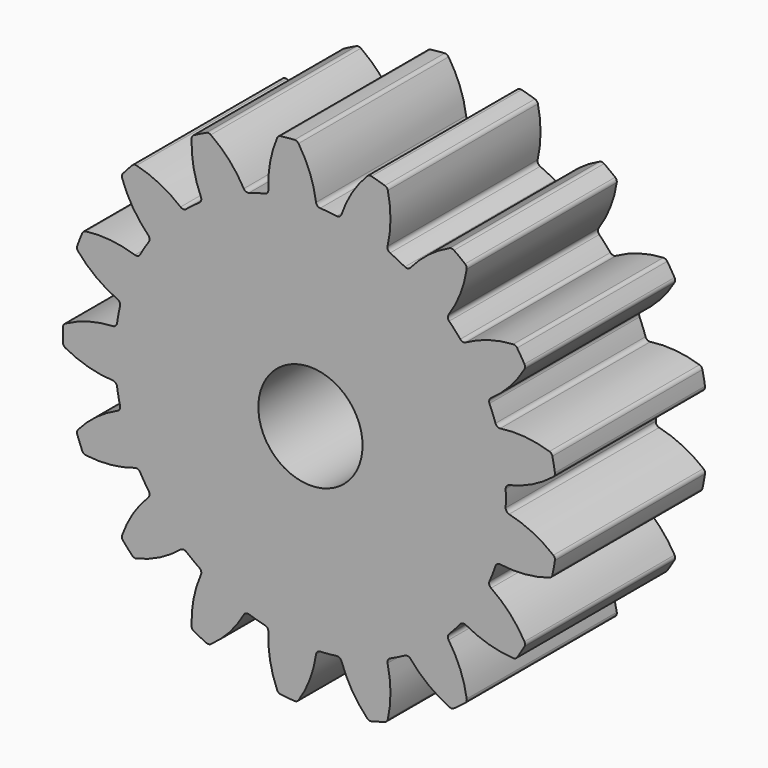
from build123d import *

# Parameters (mm, degrees)
F1_DEPTH = 3.6
F2_R     = 1
F3_DEPTH = 3.601


with BuildPart() as f1:
    # F0 (on Front) → F1 (new body)
    with BuildSketch(Plane.XZ):
        with BuildLine():
            ThreePointArc((0.10755, 3.818397), (-0.010961, 4.279436), (-0.229128, 4.702527))
            ThreePointArc((-0.229128, 4.702527), (-0.262172, 4.731554), (-0.3053, 4.740178))
            ThreePointArc((-0.3053, 4.740178), (-0.438275, 4.729737), (-0.570904, 4.715567))
            ThreePointArc((-0.570904, 4.715567), (-0.611713, 4.699164), (-0.63886, 4.66456))
            ThreePointArc((-0.63886, 4.66456), (-0.77557, 4.208585), (-0.807348, 3.733619))
            ThreePointArc((-0.807348, 3.733619), (-0.824351, 3.678638), (-0.872484, 3.647091))
            ThreePointArc((-0.872484, 3.647091), (-1.026236, 3.606846), (-1.178145, 3.560123))
            ThreePointArc((-1.178145, 3.560123), (-1.671519, 3.356862), (-2.131048, 3.085633))
            ThreePointArc((-2.131048, 3.085633), (-2.25988, 2.992565), (-2.384652, 2.89412))
            ThreePointArc((-2.384652, 2.89412), (-2.771283, 2.526359), (-3.101803, 2.107444))
            ThreePointArc((-3.101803, 2.107444), (-3.188314, 1.974121), (-3.269099, 1.837251))
            ThreePointArc((-3.269099, 1.837251), (-3.496771, 1.354656), (-3.653641, 0.844633))
            ThreePointArc((-3.653641, 0.844633), (-3.686149, 0.689061), (-3.712036, 0.532251))
            ThreePointArc((-3.712036, 0.532251), (-3.75, 0), (-3.712036, -0.532251))
            ThreePointArc((-3.712036, -0.532251), (-3.686149, -0.689061), (-3.653641, -0.844633))
            ThreePointArc((-3.653641, -0.844633), (-3.496771, -1.354656), (-3.269099, -1.837251))
            ThreePointArc((-3.269099, -1.837251), (-3.188314, -1.974121), (-3.101803, -2.107444))
            ThreePointArc((-3.101803, -2.107444), (-2.771283, -2.526359), (-2.384652, -2.89412))
            ThreePointArc((-2.384652, -2.89412), (-2.25988, -2.992565), (-2.131048, -3.085633))
            ThreePointArc((-2.131048, -3.085633), (-1.671519, -3.356862), (-1.178145, -3.560123))
            ThreePointArc((-1.178145, -3.560123), (-1.026236, -3.606846), (-0.872484, -3.647091))
            ThreePointArc((-0.872484, -3.647091), (-0.346006, -3.734003), (0.187477, -3.745311))
            ThreePointArc((0.187477, -3.745311), (0.346006, -3.734003), (0.503914, -3.715988))
            ThreePointArc((0.503914, -3.715988), (1.026236, -3.606846), (1.527779, -3.424674))
            ThreePointArc((1.527779, -3.424674), (1.671519, -3.356862), (1.812256, -3.283021))
            ThreePointArc((1.812256, -3.283021), (2.25988, -2.992565), (2.661747, -2.641516))
            ThreePointArc((2.661747, -2.641516), (2.771283, -2.526359), (2.875842, -2.406664))
            ThreePointArc((2.875842, -2.406664), (3.188314, -1.974121), (3.43623, -1.501606))
            ThreePointArc((3.43623, -1.501606), (3.496771, -1.354656), (3.55103, -1.205273))
            ThreePointArc((3.55103, -1.205273), (3.686149, -0.689061), (3.746632, -0.158897))
            ThreePointArc((3.746632, -0.158897), (3.75, 0), (3.746632, 0.158897))
            ThreePointArc((3.746632, 0.158897), (3.686149, 0.689061), (3.55103, 1.205273))
            ThreePointArc((3.55103, 1.205273), (3.496771, 1.354656), (3.43623, 1.501606))
            ThreePointArc((3.43623, 1.501606), (3.188314, 1.974121), (2.875842, 2.406664))
            ThreePointArc((2.875842, 2.406664), (2.771283, 2.526359), (2.661747, 2.641516))
            ThreePointArc((2.661747, 2.641516), (2.25988, 2.992565), (1.812256, 3.283021))
            ThreePointArc((1.812256, 3.283021), (1.671519, 3.356862), (1.527779, 3.424674))
            ThreePointArc((1.527779, 3.424674), (1.026236, 3.606846), (0.503914, 3.715988))
            ThreePointArc((0.503914, 3.715988), (0.346006, 3.734003), (0.187477, 3.745311))
            ThreePointArc((0.187477, 3.745311), (0.134367, 3.767476), (0.10755, 3.818397))
        make_face()
        with BuildLine():
            ThreePointArc((-2.131048, 3.085633), (-1.671519, 3.356862), (-1.178145, 3.560123))
            ThreePointArc((-1.178145, 3.560123), (-1.235676, 3.561606), (-1.279076, 3.599401))
            ThreePointArc((-1.279076, 3.599401), (-1.556132, 3.986496), (-1.912404, 4.302205))
            ThreePointArc((-1.912404, 4.302205), (-1.953702, 4.317335), (-1.997034, 4.309798))
            ThreePointArc((-1.997034, 4.309798), (-2.117257, 4.252026), (-2.235811, 4.190901))
            ThreePointArc((-2.235811, 4.190901), (-2.267939, 4.160864), (-2.280753, 4.118789))
            ThreePointArc((-2.280753, 4.118789), (-2.243514, 3.64422), (-2.101568, 3.189848))
            ThreePointArc((-2.101568, 3.189848), (-2.097561, 3.132438), (-2.131048, 3.085633))
        make_face()
        with BuildLine():
            ThreePointArc((-3.101803, 2.107444), (-2.771283, 2.526359), (-2.384652, 2.89412))
            ThreePointArc((-2.384652, 2.89412), (-2.438834, 2.874721), (-2.492957, 2.894286))
            ThreePointArc((-2.492957, 2.894286), (-2.891138, 3.155157), (-3.3374, 3.320847))
            ThreePointArc((-3.3374, 3.320847), (-3.381374, 3.320036), (-3.419057, 3.297355))
            ThreePointArc((-3.419057, 3.297355), (-3.510292, 3.200054), (-3.59876, 3.10023))
            ThreePointArc((-3.59876, 3.10023), (-3.617868, 3.060616), (-3.614617, 3.016754))
            ThreePointArc((-3.614617, 3.016754), (-3.408458, 2.587684), (-3.11196, 2.215271))
            ThreePointArc((-3.11196, 2.215271), (-3.087485, 2.163185), (-3.101803, 2.107444))
        make_face()
        with BuildLine():
            ThreePointArc((-3.653641, 0.844633), (-3.496771, 1.354656), (-3.269099, 1.837251))
            ThreePointArc((-3.269099, 1.837251), (-3.312614, 1.799589), (-3.370149, 1.798281))
            ThreePointArc((-3.370149, 1.798281), (-3.83568, 1.897697), (-4.311661, 1.89099))
            ThreePointArc((-4.311661, 1.89099), (-4.352373, 1.874348), (-4.379318, 1.839586))
            ThreePointArc((-4.379318, 1.839586), (-4.429243, 1.715898), (-4.475676, 1.590857))
            ThreePointArc((-4.475676, 1.590857), (-4.479183, 1.547015), (-4.460307, 1.507289))
            ThreePointArc((-4.460307, 1.507289), (-4.113072, 1.181666), (-3.702065, 0.941509))
            ThreePointArc((-3.702065, 0.941509), (-3.660426, 0.901782), (-3.653641, 0.844633))
        make_face()
        with BuildLine():
            ThreePointArc((-3.712036, -0.532251), (-3.75, 0), (-3.712036, 0.532251))
            ThreePointArc((-3.712036, 0.532251), (-3.739007, 0.481412), (-3.792185, 0.459409))
            ThreePointArc((-3.792185, 0.459409), (-4.262192, 0.383942), (-4.703608, 0.205744))
            ThreePointArc((-4.703608, 0.205744), (-4.73556, 0.175519), (-4.748127, 0.133371))
            ThreePointArc((-4.748127, 0.133371), (-4.75, 0), (-4.748127, -0.133371))
            ThreePointArc((-4.748127, -0.133371), (-4.73556, -0.175519), (-4.703608, -0.205744))
            ThreePointArc((-4.703608, -0.205744), (-4.262192, -0.383942), (-3.792185, -0.459409))
            ThreePointArc((-3.792185, -0.459409), (-3.739007, -0.481412), (-3.712036, -0.532251))
        make_face()
        with BuildLine():
            ThreePointArc((0.595909, 3.773144), (0.560193, 3.728017), (0.503914, 3.715988))
            ThreePointArc((0.503914, 3.715988), (1.026236, 3.606846), (1.527779, 3.424674))
            ThreePointArc((1.527779, 3.424674), (1.486262, 3.464528), (1.479652, 3.521697))
            ThreePointArc((1.479652, 3.521697), (1.53569, 3.994415), (1.485093, 4.467746))
            ThreePointArc((1.485093, 4.467746), (1.464766, 4.50675), (1.427666, 4.530372))
            ThreePointArc((1.427666, 4.530372), (1.299899, 4.568672), (1.171107, 4.603369))
            ThreePointArc((1.171107, 4.603369), (1.127129, 4.602816), (1.089314, 4.580355))
            ThreePointArc((1.089314, 4.580355), (0.797119, 4.204557), (0.595909, 3.773144))
        make_face()
        with BuildLine():
            ThreePointArc((1.918686, 3.303084), (1.86908, 3.273908), (1.812256, 3.283021))
            ThreePointArc((1.812256, 3.283021), (2.25988, 2.992565), (2.661747, 2.641516))
            ThreePointArc((2.661747, 2.641516), (2.63743, 2.693676), (2.651918, 2.749373))
            ThreePointArc((2.651918, 2.749373), (2.874937, 3.169926), (2.998744, 3.629572))
            ThreePointArc((2.998744, 3.629572), (2.99388, 3.673284), (2.967818, 3.708713))
            ThreePointArc((2.967818, 3.708713), (2.862515, 3.790582), (2.754954, 3.869461))
            ThreePointArc((2.754954, 3.869461), (2.713745, 3.884832), (2.67037, 3.877549))
            ThreePointArc((2.67037, 3.877549), (2.262152, 3.63268), (1.918686, 3.303084))
        make_face()
        with BuildLine():
            ThreePointArc((2.982333, 2.386925), (2.925537, 2.377638), (2.875842, 2.406664))
            ThreePointArc((2.875842, 2.406664), (3.188314, 1.974121), (3.43623, 1.501606))
            ThreePointArc((3.43623, 1.501606), (3.432399, 1.559029), (3.466028, 1.605731))
            ThreePointArc((3.466028, 1.605731), (3.825909, 1.917321), (4.107398, 2.301204))
            ThreePointArc((4.107398, 2.301204), (4.118653, 2.343721), (4.10715, 2.386173))
            ThreePointArc((4.10715, 2.386173), (4.038531, 2.500553), (3.966728, 2.612961))
            ThreePointArc((3.966728, 2.612961), (3.933855, 2.64218), (3.890778, 2.651058))
            ThreePointArc((3.890778, 2.651058), (3.421669, 2.57019), (2.982333, 2.386925))
        make_face()
        with BuildLine():
            ThreePointArc((3.643199, 1.148399), (3.586884, 1.160256), (3.55103, 1.205273))
            ThreePointArc((3.55103, 1.205273), (3.686149, 0.689061), (3.746632, 0.158897))
            ThreePointArc((3.746632, 0.158897), (3.763802, 0.213826), (3.812032, 0.245226))
            ThreePointArc((3.812032, 0.245226), (4.26017, 0.405771), (4.661326, 0.662045))
            ThreePointArc((4.661326, 0.662045), (4.687179, 0.697626), (4.691788, 0.741366))
            ThreePointArc((4.691788, 0.741366), (4.669122, 0.87281), (4.642775, 1.003566))
            ThreePointArc((4.642775, 1.003566), (4.622676, 1.042688), (4.585715, 1.066526))
            ThreePointArc((4.585715, 1.066526), (4.119071, 1.160581), (3.643199, 1.148399))
        make_face()
        with BuildLine():
            ThreePointArc((3.812032, -0.245226), (3.763802, -0.213826), (3.746632, -0.158897))
            ThreePointArc((3.746632, -0.158897), (3.686149, -0.689061), (3.55103, -1.205273))
            ThreePointArc((3.55103, -1.205273), (3.586884, -1.160256), (3.643199, -1.148399))
            ThreePointArc((3.643199, -1.148399), (4.119071, -1.160581), (4.585715, -1.066526))
            ThreePointArc((4.585715, -1.066526), (4.622676, -1.042688), (4.642775, -1.003566))
            ThreePointArc((4.642775, -1.003566), (4.669122, -0.87281), (4.691788, -0.741366))
            ThreePointArc((4.691788, -0.741366), (4.687179, -0.697626), (4.661326, -0.662045))
            ThreePointArc((4.661326, -0.662045), (4.26017, -0.405771), (3.812032, -0.245226))
        make_face()
        with BuildLine():
            ThreePointArc((3.466028, -1.605731), (3.432399, -1.559029), (3.43623, -1.501606))
            ThreePointArc((3.43623, -1.501606), (3.188314, -1.974121), (2.875842, -2.406664))
            ThreePointArc((2.875842, -2.406664), (2.925537, -2.377638), (2.982333, -2.386925))
            ThreePointArc((2.982333, -2.386925), (3.421669, -2.57019), (3.890778, -2.651058))
            ThreePointArc((3.890778, -2.651058), (3.933855, -2.64218), (3.966728, -2.612961))
            ThreePointArc((3.966728, -2.612961), (4.038531, -2.500553), (4.10715, -2.386173))
            ThreePointArc((4.10715, -2.386173), (4.118653, -2.343721), (4.107398, -2.301204))
            ThreePointArc((4.107398, -2.301204), (3.825909, -1.917321), (3.466028, -1.605731))
        make_face()
        with BuildLine():
            ThreePointArc((2.651918, -2.749373), (2.63743, -2.693676), (2.661747, -2.641516))
            ThreePointArc((2.661747, -2.641516), (2.25988, -2.992565), (1.812256, -3.283021))
            ThreePointArc((1.812256, -3.283021), (1.86908, -3.273908), (1.918686, -3.303084))
            ThreePointArc((1.918686, -3.303084), (2.262152, -3.63268), (2.67037, -3.877549))
            ThreePointArc((2.67037, -3.877549), (2.713745, -3.884832), (2.754954, -3.869461))
            ThreePointArc((2.754954, -3.869461), (2.862515, -3.790582), (2.967818, -3.708713))
            ThreePointArc((2.967818, -3.708713), (2.99388, -3.673284), (2.998744, -3.629572))
            ThreePointArc((2.998744, -3.629572), (2.874937, -3.169926), (2.651918, -2.749373))
        make_face()
        with BuildLine():
            ThreePointArc((1.479652, -3.521697), (1.486262, -3.464528), (1.527779, -3.424674))
            ThreePointArc((1.527779, -3.424674), (1.026236, -3.606846), (0.503914, -3.715988))
            ThreePointArc((0.503914, -3.715988), (0.560193, -3.728017), (0.595909, -3.773144))
            ThreePointArc((0.595909, -3.773144), (0.797119, -4.204557), (1.089314, -4.580355))
            ThreePointArc((1.089314, -4.580355), (1.127129, -4.602816), (1.171107, -4.603369))
            ThreePointArc((1.171107, -4.603369), (1.299899, -4.568672), (1.427666, -4.530372))
            ThreePointArc((1.427666, -4.530372), (1.464766, -4.50675), (1.485093, -4.467746))
            ThreePointArc((1.485093, -4.467746), (1.53569, -3.994415), (1.479652, -3.521697))
        make_face()
        with BuildLine():
            ThreePointArc((0.10755, -3.818397), (0.134367, -3.767476), (0.187477, -3.745311))
            ThreePointArc((0.187477, -3.745311), (-0.346006, -3.734003), (-0.872484, -3.647091))
            ThreePointArc((-0.872484, -3.647091), (-0.824351, -3.678638), (-0.807348, -3.733619))
            ThreePointArc((-0.807348, -3.733619), (-0.77557, -4.208585), (-0.63886, -4.66456))
            ThreePointArc((-0.63886, -4.66456), (-0.611713, -4.699164), (-0.570904, -4.715567))
            ThreePointArc((-0.570904, -4.715567), (-0.438275, -4.729737), (-0.3053, -4.740178))
            ThreePointArc((-0.3053, -4.740178), (-0.262172, -4.731554), (-0.229128, -4.702527))
            ThreePointArc((-0.229128, -4.702527), (-0.010961, -4.279436), (0.10755, -3.818397))
        make_face()
        with BuildLine():
            ThreePointArc((-1.178145, -3.560123), (-1.671519, -3.356862), (-2.131048, -3.085633))
            ThreePointArc((-2.131048, -3.085633), (-2.097561, -3.132438), (-2.101568, -3.189848))
            ThreePointArc((-2.101568, -3.189848), (-2.243514, -3.64422), (-2.280753, -4.118789))
            ThreePointArc((-2.280753, -4.118789), (-2.267939, -4.160864), (-2.235811, -4.190901))
            ThreePointArc((-2.235811, -4.190901), (-2.117257, -4.252026), (-1.997034, -4.309798))
            ThreePointArc((-1.997034, -4.309798), (-1.953702, -4.317335), (-1.912404, -4.302205))
            ThreePointArc((-1.912404, -4.302205), (-1.556132, -3.986496), (-1.279076, -3.599401))
            ThreePointArc((-1.279076, -3.599401), (-1.235676, -3.561606), (-1.178145, -3.560123))
        make_face()
        with BuildLine():
            ThreePointArc((-2.384652, -2.89412), (-2.771283, -2.526359), (-3.101803, -2.107444))
            ThreePointArc((-3.101803, -2.107444), (-3.087485, -2.163185), (-3.11196, -2.215271))
            ThreePointArc((-3.11196, -2.215271), (-3.408458, -2.587684), (-3.614617, -3.016754))
            ThreePointArc((-3.614617, -3.016754), (-3.617868, -3.060616), (-3.59876, -3.10023))
            ThreePointArc((-3.59876, -3.10023), (-3.510292, -3.200054), (-3.419057, -3.297355))
            ThreePointArc((-3.419057, -3.297355), (-3.381374, -3.320036), (-3.3374, -3.320847))
            ThreePointArc((-3.3374, -3.320847), (-2.891138, -3.155157), (-2.492957, -2.894286))
            ThreePointArc((-2.492957, -2.894286), (-2.438834, -2.874721), (-2.384652, -2.89412))
        make_face()
        with BuildLine():
            ThreePointArc((-3.269099, -1.837251), (-3.496771, -1.354656), (-3.653641, -0.844633))
            ThreePointArc((-3.653641, -0.844633), (-3.660426, -0.901782), (-3.702065, -0.941509))
            ThreePointArc((-3.702065, -0.941509), (-4.113072, -1.181666), (-4.460307, -1.507289))
            ThreePointArc((-4.460307, -1.507289), (-4.479183, -1.547015), (-4.475676, -1.590857))
            ThreePointArc((-4.475676, -1.590857), (-4.429243, -1.715898), (-4.379318, -1.839586))
            ThreePointArc((-4.379318, -1.839586), (-4.352373, -1.874348), (-4.311661, -1.89099))
            ThreePointArc((-4.311661, -1.89099), (-3.83568, -1.897697), (-3.370149, -1.798281))
            ThreePointArc((-3.370149, -1.798281), (-3.312614, -1.799589), (-3.269099, -1.837251))
        make_face()
    extrude(amount=F1_DEPTH)

    # F2 (on face) → F3 (cut, through all)
    with BuildSketch(Plane.XZ.offset(3.6)):
        Circle(F2_R)
    extrude(amount=-F3_DEPTH, mode=Mode.SUBTRACT)


solid = f1.part
